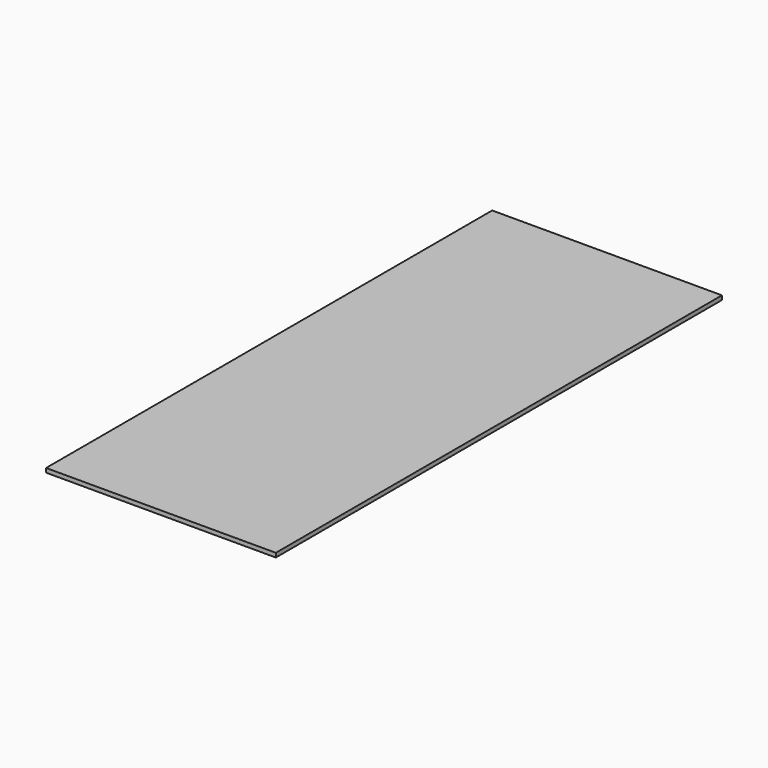
from build123d import *

# Parameters (mm, degrees)
SKETCH_W  = 110
SKETCH_H  = 267
PAD_DEPTH = 2


with BuildPart() as part:
    # Sketch → Pad (new body)
    with BuildSketch(Plane.XY):
        with Locations((55, 133.5)):
            Rectangle(SKETCH_W, SKETCH_H)
    extrude(amount=PAD_DEPTH)


solid = part.part
